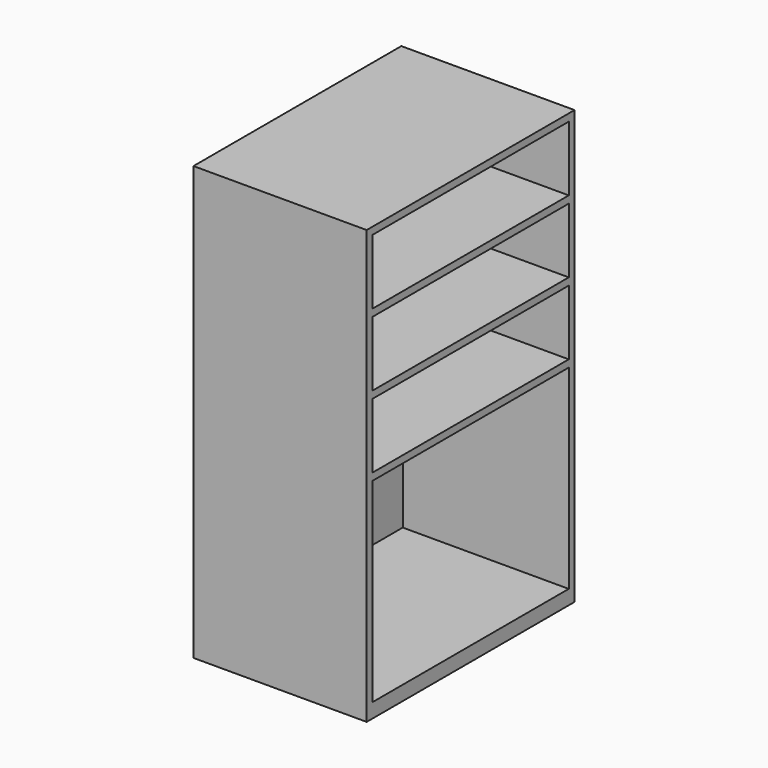
from build123d import *

# Parameters (mm, degrees)
F0_W     = 914.4
F0_H     = 1524
F1_DEPTH = 609.6
F2_W     = 863.6
F2_H     = 228.6
F3_DEPTH = 584.2
F4_W     = 863.6
F4_H     = 685.8
F5_DEPTH = 584.2


with BuildPart() as f1:
    # F0 (on Right) → F1 (new body)
    with BuildSketch(Plane.YZ):
        Rectangle(F0_W, F0_H)
    extrude(amount=F1_DEPTH)

    # F2 (on face) → F3 (cut)
    with BuildSketch(Plane.YZ.offset(609.6)):
        with Locations((0, 622.3)):
            Rectangle(F2_W, F2_H)
        with Locations((0, 368.3)):
            Rectangle(F2_W, F2_H)
        with Locations((0, 114.3)):
            Rectangle(F2_W, F2_H)
    extrude(amount=-F3_DEPTH, mode=Mode.SUBTRACT)

    # F4 (on face) → F5 (cut)
    with BuildSketch(Plane.YZ.offset(609.6)):
        with Locations((0, -368.3)):
            Rectangle(F4_W, F4_H)
    extrude(amount=-F5_DEPTH, mode=Mode.SUBTRACT)


solid = f1.part
